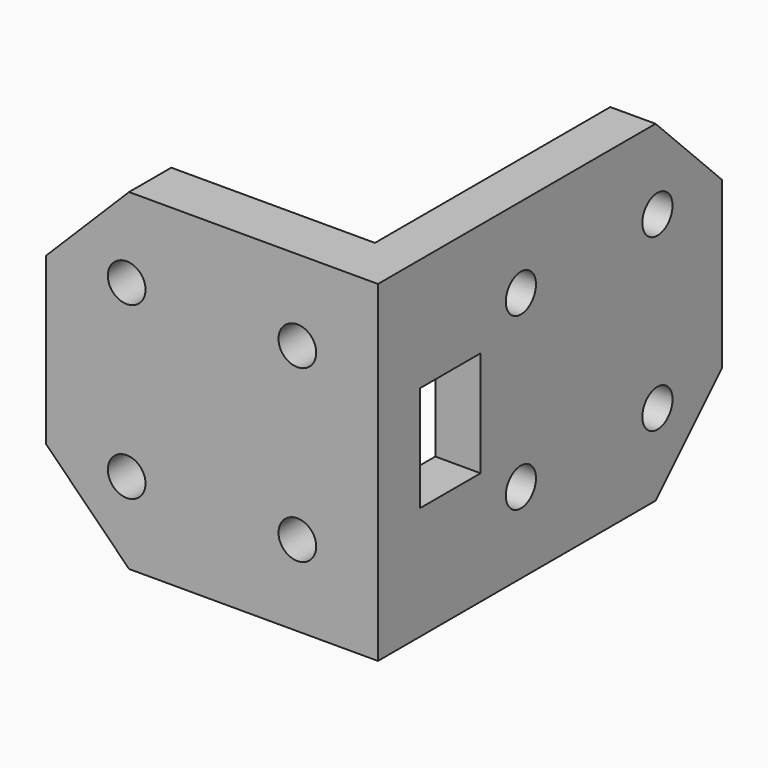
from build123d import *

# Parameters (mm, degrees)
F1_DEPTH = 11
F2_R     = 1.25
F3_DEPTH = 22.001
F4_R     = 1.25
F5_DEPTH = 3.501
F6_SIZE  = 5.5
F7_W     = 5
F7_H     = 7
F8_DEPTH = 25


with BuildPart() as f1:
    # F0 (on Top) → F1 (new body, symmetric)
    with BuildSketch(Plane.XY):
        Polygon((11, 11), (8, 11), (8, -14), (-11, -14), (-11, -17.5), (11, -17.5), align=None)
    extrude(amount=F1_DEPTH, both=True)

    # F2 (on face) → F3 (cut, through all)
    with BuildSketch(Plane.YZ.offset(11)):
        with Locations((5.656854, -5.656854)):
            Circle(F2_R)
        with Locations((5.656854, 5.656854)):
            Circle(F2_R)
        with Locations((-5.656854, 5.656854)):
            Circle(F2_R)
        with Locations((-5.656854, -5.656854)):
            Circle(F2_R)
    extrude(amount=-F3_DEPTH, mode=Mode.SUBTRACT)

    # F4 (on face) → F5 (cut, through all)
    with BuildSketch(Plane(origin=(0, -14, 0), x_dir=(-1, 0, 0), z_dir=(0, 1, 0))):
        with Locations((5.656854, -5.656854)):
            Circle(F4_R)
        with Locations((5.656854, 5.656854)):
            Circle(F4_R)
        with Locations((-5.656854, 5.656854)):
            Circle(F4_R)
        with Locations((-5.656854, -5.656854)):
            Circle(F4_R)
    extrude(amount=-F5_DEPTH, mode=Mode.SUBTRACT)

    # F6
    f6_edges = [f1.edges().sort_by_distance(p)[0] for p in [
        (9.5, 11, 11),
        (9.5, 11, -11),
        (-11, -15.75, -11),
        (-11, -15.75, 11),
    ]]
    chamfer(f6_edges, length=F6_SIZE)

    # F7 (on face) → F8 (cut)
    with BuildSketch(Plane(origin=(8, 0, 0), x_dir=(0, -1, 0), z_dir=(-1, 0, 0))):
        with Locations((11.5, 0)):
            Rectangle(F7_W, F7_H)
    extrude(amount=-F8_DEPTH, mode=Mode.SUBTRACT)


solid = f1.part
